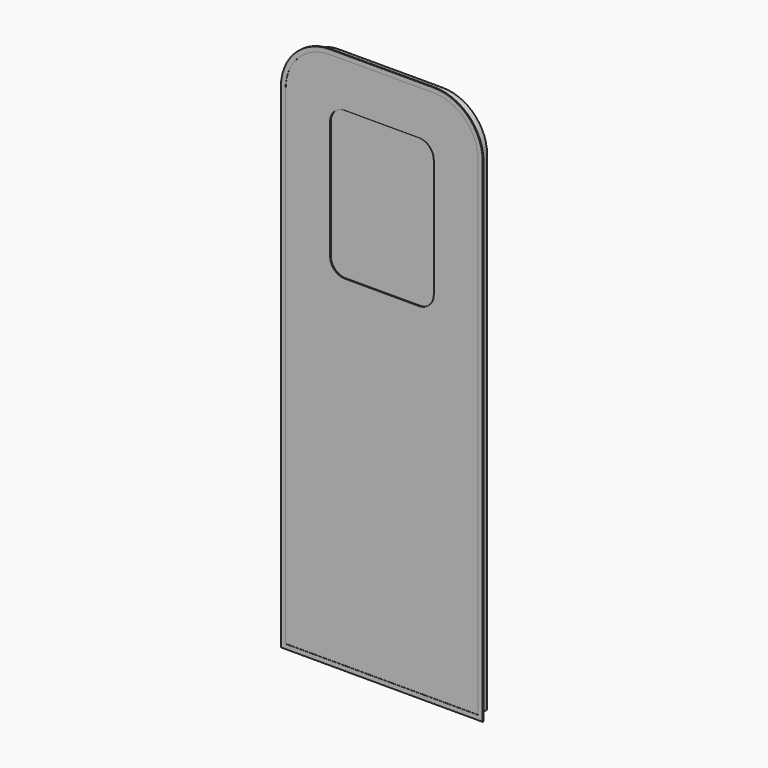
from build123d import *

# Parameters (mm, degrees)
F1_DEPTH      = 38.1
F2_DEPTH      = 2.54
F2_DEPTH_BACK = 0.635
F3_DEPTH      = 3.175
F4_START      = -34.925
F4_DEPTH      = 3.175


with BuildPart() as f1:
    # F0 (on Front) → F1 (new body)
    with BuildSketch(Plane.XZ):
        with BuildLine():
            Line((-660.4, 0), (0, 0))
            Line((0, 0), (0, 1676.4))
            ThreePointArc((0, 1676.4), (-44.6369265472, 1784.1630734528), (-152.4, 1828.8))
            Line((-152.4, 1828.8), (-508, 1828.8))
            ThreePointArc((-508, 1828.8), (-615.7630734528, 1784.1630734528), (-660.4, 1676.4))
            Line((-660.4, 1676.4), (-660.4, 0))
        make_face()
        with BuildLine():
            ThreePointArc((-508, 1625.6), (-493.1210244843, 1661.5210244843), (-457.2, 1676.4))
            Line((-457.2, 1676.4), (-203.2, 1676.4))
            ThreePointArc((-203.2, 1676.4), (-167.2789755157, 1661.5210244843), (-152.4, 1625.6))
            Line((-152.4, 1625.6), (-152.4, 1219.2))
            ThreePointArc((-152.4, 1219.2), (-167.2789755157, 1183.2789755157), (-203.2, 1168.4))
            Line((-203.2, 1168.4), (-457.2, 1168.4))
            ThreePointArc((-457.2, 1168.4), (-493.1210244843, 1183.2789755157), (-508, 1219.2))
            Line((-508, 1219.2), (-508, 1625.6))
        make_face(mode=Mode.SUBTRACT)
        with BuildLine():
            Line((-203.2, 1676.4), (-457.2, 1676.4))
            ThreePointArc((-457.2, 1676.4), (-493.1210244843, 1661.5210244843), (-508, 1625.6))
            Line((-508, 1625.6), (-508, 1219.2))
            ThreePointArc((-508, 1219.2), (-493.1210244843, 1183.2789755157), (-457.2, 1168.4))
            Line((-457.2, 1168.4), (-203.2, 1168.4))
            ThreePointArc((-203.2, 1168.4), (-167.2789755157, 1183.2789755157), (-152.4, 1219.2))
            Line((-152.4, 1219.2), (-152.4, 1625.6))
            ThreePointArc((-152.4, 1625.6), (-167.2789755157, 1661.5210244843), (-203.2, 1676.4))
        make_face()
    extrude(amount=-F1_DEPTH)

    # F0 (on Front) → F2 (join, two sides)
    with BuildSketch(Plane.XZ) as f2_sk:
        with BuildLine():
            Line((-676.275, -15.875), (15.875, -15.875))
            Line((15.875, -15.875), (15.875, 1676.4))
            ThreePointArc((15.875, 1676.4), (-33.4116063958, 1795.3883936042), (-152.4, 1844.675))
            Line((-152.4, 1844.675), (-508, 1844.675))
            ThreePointArc((-508, 1844.675), (-626.9883936042, 1795.3883936042), (-676.275, 1676.4))
            Line((-676.275, 1676.4), (-676.275, -15.875))
        make_face()
        with BuildLine():
            Line((0, 1676.4), (0, 0))
            Line((0, 0), (-660.4, 0))
            Line((-660.4, 0), (-660.4, 1676.4))
            ThreePointArc((-660.4, 1676.4), (-615.7630734528, 1784.1630734528), (-508, 1828.8))
            Line((-508, 1828.8), (-152.4, 1828.8))
            ThreePointArc((-152.4, 1828.8), (-44.6369265472, 1784.1630734528), (0, 1676.4))
        make_face(mode=Mode.SUBTRACT)
    extrude(amount=-F2_DEPTH)
    extrude(f2_sk.sketch, amount=F2_DEPTH_BACK)

    # F0 (on Front) → F3 (cut)
    with BuildSketch(Plane.XZ):
        with BuildLine():
            Line((-203.2, 1676.4), (-457.2, 1676.4))
            ThreePointArc((-457.2, 1676.4), (-493.1210244843, 1661.5210244843), (-508, 1625.6))
            Line((-508, 1625.6), (-508, 1219.2))
            ThreePointArc((-508, 1219.2), (-493.1210244843, 1183.2789755157), (-457.2, 1168.4))
            Line((-457.2, 1168.4), (-203.2, 1168.4))
            ThreePointArc((-203.2, 1168.4), (-167.2789755157, 1183.2789755157), (-152.4, 1219.2))
            Line((-152.4, 1219.2), (-152.4, 1625.6))
            ThreePointArc((-152.4, 1625.6), (-167.2789755157, 1661.5210244843), (-203.2, 1676.4))
        make_face()
    extrude(amount=-F3_DEPTH, mode=Mode.SUBTRACT)

    # F0 (on Front) → F4 (cut)
    with BuildSketch(Plane.XZ.offset(F4_START)):
        with BuildLine():
            Line((-203.2, 1676.4), (-457.2, 1676.4))
            ThreePointArc((-457.2, 1676.4), (-493.1210244843, 1661.5210244843), (-508, 1625.6))
            Line((-508, 1625.6), (-508, 1219.2))
            ThreePointArc((-508, 1219.2), (-493.1210244843, 1183.2789755157), (-457.2, 1168.4))
            Line((-457.2, 1168.4), (-203.2, 1168.4))
            ThreePointArc((-203.2, 1168.4), (-167.2789755157, 1183.2789755157), (-152.4, 1219.2))
            Line((-152.4, 1219.2), (-152.4, 1625.6))
            ThreePointArc((-152.4, 1625.6), (-167.2789755157, 1661.5210244843), (-203.2, 1676.4))
        make_face()
    extrude(amount=-F4_DEPTH, mode=Mode.SUBTRACT)


solid = f1.part
